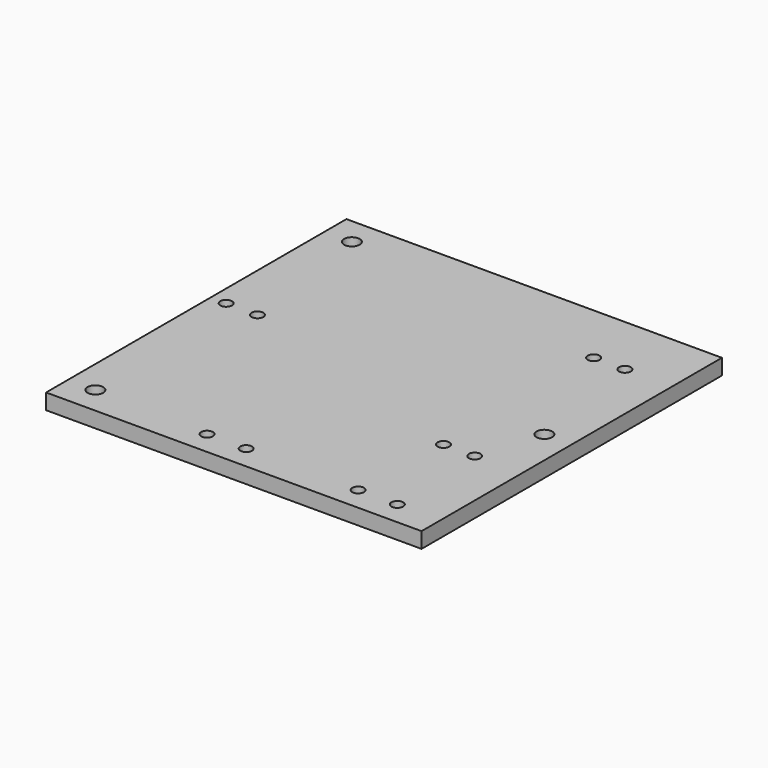
from build123d import *

# Parameters (mm, degrees)
F0_W     = 127
F0_H     = 152.4
F0_R     = 3.175
F0_R_2   = 2.38125
F0_W_2   = 25.4
F1_DEPTH = 6.35


with BuildPart() as f1:
    # F0 (on Top) → F1 (new body)
    with BuildSketch(Plane.XY):
        with Locations((-14.822774, -0.883641)):
            Rectangle(F0_W, F0_H)
        with Locations((-67.210274, -65.971141)):
            Circle(F0_R, mode=Mode.SUBTRACT)
        with Locations((-20.602145, -67.558641)):
            Circle(F0_R_2, mode=Mode.SUBTRACT)
        with Locations((-4.727145, -67.558641)):
            Circle(F0_R_2, mode=Mode.SUBTRACT)
        with Locations((40.739726, -67.558641)):
            Circle(F0_R_2, mode=Mode.SUBTRACT)
        with Locations((42.327226, -26.283641)):
            Circle(F0_R_2, mode=Mode.SUBTRACT)
        with Locations((-71.972774, 6.35)):
            Circle(F0_R_2, mode=Mode.SUBTRACT)
        with Locations((-59.272774, 6.35)):
            Circle(F0_R_2, mode=Mode.SUBTRACT)
        with Locations((-67.210274, 64.203859)):
            Circle(F0_R, mode=Mode.SUBTRACT)
        with Locations((42.327226, 49.916359)):
            Circle(F0_R_2, mode=Mode.SUBTRACT)
        with Locations((61.377226, -0.883641)):
            Rectangle(F0_W_2, F0_H)
        with Locations((56.614726, -67.558641)):
            Circle(F0_R_2, mode=Mode.SUBTRACT)
        with Locations((55.027226, -26.283641)):
            Circle(F0_R_2, mode=Mode.SUBTRACT)
        with Locations((62.964726, -0.883641)):
            Circle(F0_R, mode=Mode.SUBTRACT)
        with Locations((55.027226, 49.916359)):
            Circle(F0_R_2, mode=Mode.SUBTRACT)
    extrude(amount=F1_DEPTH)


solid = f1.part
